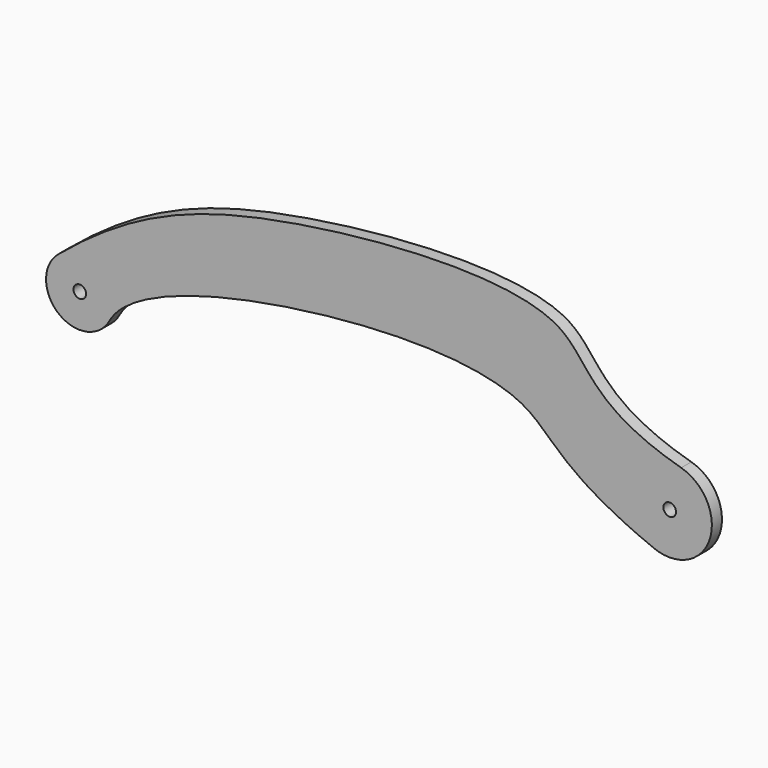
from build123d import *

# Parameters (mm, degrees)
F0_R     = 1.5
F1_DEPTH = 3


with BuildPart() as f1:
    # F0 (on Front) → F1 (new body)
    with BuildSketch(Plane.XZ):
        with BuildLine():
            ThreePointArc((-69.0227917267, 1.3052843005), (-67.9851804003, 1.4699920005), (-67.0940194909, 0.9135765759))
            add(Edge.make_bspline(
                [(-57.680800559, 0.2344938671), (-61.7730566669, 0.3896469336), (-64.9985292025, 0.6122544559), (-67.0940194909, 0.9135765759)],
                knots=[0.9774114552, 0.9774114552, 0.9774114552, 0.9774114552, 0.9916151373, 0.9916151373, 0.9916151373, 0.9916151373], degree=3))
            add(Edge.make_bspline(
                [(-57.6808005589, 0.2344938667), (-48.4639632681, 7.6411319447), (-4.3207292174, 17.1214993066), (36.1881090642, 14.6734800331), (42.6773196978, 5.7265815892), (47.2996428194, 2.0372180888)],
                knots=[0.0539923322, 0.0539923322, 0.0539923322, 0.0539923322, 0.3691985618, 0.6986702464, 0.8597294298, 0.8597294298, 0.8597294298, 0.8597294298], degree=3))
            add(Edge.make_bspline(
                [(-69.5696051707, 1.5318254148), (-70.6585048459, 2.1793041954), (-65.192412384, 4.2456895044), (-61.2609986491, 8.6657456762), (-52.5212731421, 13.7784006094), (-45.7528015897, 17.0008602129), (-39.7642885535, 19.2458094433), (-35.2060434897, 20.7385552366), (-30.4273649772, 22.0635358619), (-25.4733734107, 23.2237547066), (-21.0576484523, 24.0911254875), (-17.3048678994, 24.7530157104), (-13.4411068657, 25.4009356766), (-8.5182194028, 26.136622871), (-2.5020890071, 26.8770264065), (3.5650913958, 27.4729966605), (9.6379515111, 27.9076922213), (15.5466616461, 28.153751476), (21.2200165051, 28.1928288286), (26.481342041, 28.0118364201), (31.2977310181, 27.5964383722), (34.7947380957, 27.0305208303), (37.2740610588, 26.4486207284), (38.8887625391, 25.9879106608), (40.2725305064, 25.4930535343), (41.2062716434, 25.0577941891), (41.8168639936, 24.7189771932), (42.3811998453, 24.3781879844), (43.0038503997, 23.9303411697), (43.7053697407, 23.3113521469), (44.431387318, 22.5618040844), (45.2145568618, 21.6535801381), (46.3911574807, 20.2202777052), (48.0531239275, 18.0466102383), (50.7413704897, 15.0304771702), (54.3913259902, 11.9213858167), (58.96891371, 8.9406430897), (65.210164178, 6.2380913317), (68.9491854078, 4.6285897051), (77.0215150686, 3.7128180423), (61.5511500593, 2.6814207439), (47.2996428191, 2.0372180877)],
                knots=[0, 0, 0, 0, 0.0230964663, 0.0546573021, 0.0913655563, 0.1240051066, 0.1532797179, 0.1788742308, 0.2048782719, 0.2314379146, 0.2562971621, 0.2790161143, 0.3020345806, 0.3281627282, 0.3571170815, 0.3861656918, 0.4150751374, 0.4436074328, 0.4715127873, 0.4985191054, 0.524315631, 0.5464167628, 0.5649114417, 0.5800708632, 0.5942227073, 0.6060609757, 0.6157411984, 0.6251547152, 0.6353858801, 0.6467256007, 0.6586365574, 0.6713707945, 0.6871299445, 0.7065029547, 0.7300498346, 0.7556551251, 0.7833192044, 0.813355606, 0.8402018115, 0.8601481847, 0.8970932187, 0.8970932187, 0.8970932187, 0.8970932187], degree=3))
            add(Edge.make_bspline(
                [(-69.0227917267, 1.3052843005), (-69.2540801474, 1.3775105474), (-69.4370320631, 1.4529951276), (-69.5696051707, 1.5318254148)],
                knots=[0.9971880143, 0.9971880143, 0.9971880143, 0.9971880143, 1, 1, 1, 1], degree=3))
        make_face()
        with BuildLine():
            ThreePointArc((-67.0940194909, 0.9135765759), (-66.8634088739, 0.482418491), (-66.7837160236, 0))
            ThreePointArc((-66.7837160236, 0), (-69.0391584255, -1.2958806956), (-69.0227917267, 1.3052843005))
            add(Edge.make_bspline(
                [(-69.0227917267, 1.3052843005), (-69.2540801474, 1.3775105474), (-69.4370320631, 1.4529951276), (-69.5696051707, 1.5318254148)],
                knots=[0.9971880143, 0.9971880143, 0.9971880143, 0.9971880143, 1, 1, 1, 1], degree=3))
            add(Edge.make_bspline(
                [(-69.5696051707, 1.5318254148), (-70.6585048459, 2.1793041954), (-65.192412384, 4.2456895044), (-61.2609986491, 8.6657456762), (-52.5212731421, 13.7784006094), (-45.7528015897, 17.0008602129), (-39.7642885535, 19.2458094433), (-35.2060434897, 20.7385552366), (-30.4273649772, 22.0635358619), (-25.4733734107, 23.2237547066), (-21.0576484523, 24.0911254875), (-17.3048678994, 24.7530157104), (-13.4411068657, 25.4009356766), (-8.5182194028, 26.136622871), (-2.5020890071, 26.8770264065), (3.5650913958, 27.4729966605), (9.6379515111, 27.9076922213), (15.5466616461, 28.153751476), (21.2200165051, 28.1928288286), (26.481342041, 28.0118364201), (31.2977310181, 27.5964383722), (34.7947380957, 27.0305208303), (37.2740610588, 26.4486207284), (38.8887625391, 25.9879106608), (40.2725305064, 25.4930535343), (41.2062716434, 25.0577941891), (41.8168639936, 24.7189771932), (42.3811998453, 24.3781879844), (43.0038503997, 23.9303411697), (43.7053697407, 23.3113521469), (44.431387318, 22.5618040844), (45.2145568618, 21.6535801381), (46.3911574807, 20.2202777052), (48.0531239275, 18.0466102383), (50.7413704897, 15.0304771702), (54.3913259902, 11.9213858167), (58.96891371, 8.9406430897), (65.210164178, 6.2380913317), (68.9491854078, 4.6285897051), (77.0215150686, 3.7128180423), (61.5511500593, 2.6814207439), (47.2996428191, 2.0372180877)],
                knots=[0, 0, 0, 0, 0.0230964663, 0.0546573021, 0.0913655563, 0.1240051066, 0.1532797179, 0.1788742308, 0.2048782719, 0.2314379146, 0.2562971621, 0.2790161143, 0.3020345806, 0.3281627282, 0.3571170815, 0.3861656918, 0.4150751374, 0.4436074328, 0.4715127873, 0.4985191054, 0.524315631, 0.5464167628, 0.5649114417, 0.5800708632, 0.5942227073, 0.6060609757, 0.6157411984, 0.6251547152, 0.6353858801, 0.6467256007, 0.6586365574, 0.6713707945, 0.6871299445, 0.7065029547, 0.7300498346, 0.7556551251, 0.7833192044, 0.813355606, 0.8402018115, 0.8601481847, 0.8970932187, 0.8970932187, 0.8970932187, 0.8970932187], degree=3))
            add(Edge.make_bspline(
                [(47.2996428194, 2.0372180888), (51.3253424787, -1.1759431283), (57.2410087859, -4.9593307), (67.9868448816, -9.2785388956)],
                knots=[0.8597294298, 0.8597294298, 0.8597294298, 0.8597294298, 1, 1, 1, 1], degree=3))
            ThreePointArc((67.9868448816, -9.2785388956), (81.1793610879, -3.2326725139), (74.4431115504, 9.6210400364))
            add(Edge.make_bspline(
                [(-73.4272726121, 6.127301659), (-55.8073116374, 20.918358376), (-25.2805144898, 32.7092904185), (55.4960592195, 37.6560426278), (51.1851496994, 16.2128899246), (74.4431115504, 9.6210400364)],
                knots=[0, 0, 0, 0, 0.3556205136, 0.7224294481, 1, 1, 1, 1], degree=3))
            ThreePointArc((-73.4272726121, 6.127301659), (-73.3440444858, -6.1962146391), (-61.2523421605, -3.8157281871))
            add(Edge.make_bspline(
                [(-61.2523421605, -3.8157281871), (-60.4755014716, -2.384217071), (-59.259571833, -1.0342046104), (-57.6808005589, 0.2344938667)],
                knots=[0, 0, 0, 0, 0.0539923322, 0.0539923322, 0.0539923322, 0.0539923322], degree=3))
            add(Edge.make_bspline(
                [(-57.680800559, 0.2344938671), (-61.7730566669, 0.3896469336), (-64.9985292025, 0.6122544559), (-67.0940194909, 0.9135765759)],
                knots=[0.9774114552, 0.9774114552, 0.9774114552, 0.9774114552, 0.9916151373, 0.9916151373, 0.9916151373, 0.9916151373], degree=3))
        make_face()
        with Locations((71.7162839764, 0)):
            Circle(F0_R, mode=Mode.SUBTRACT)
    extrude(amount=F1_DEPTH)


solid = f1.part
